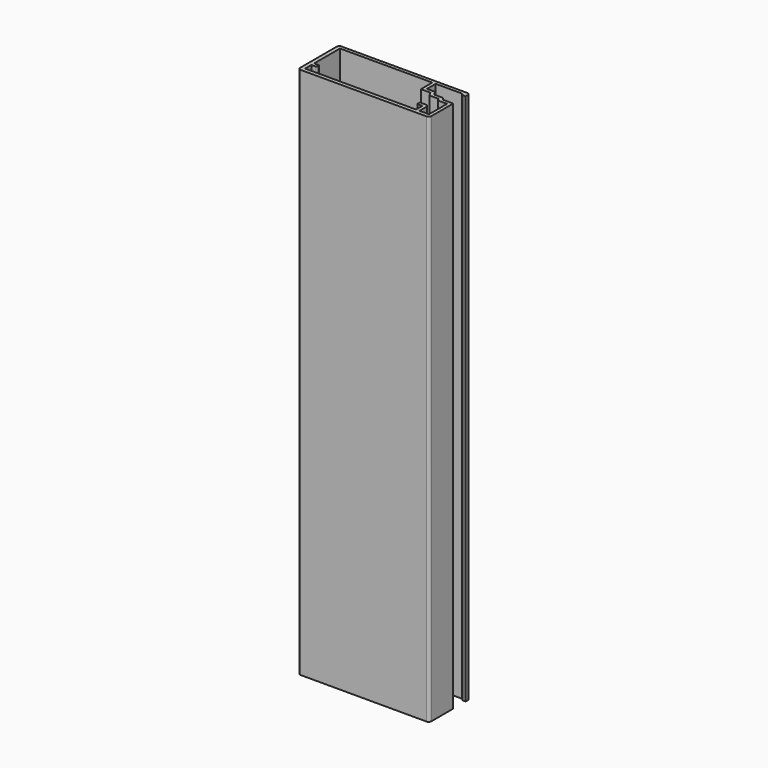
from build123d import *

# Parameters (mm, degrees)
F1_DEPTH = 203.2


with BuildPart() as f1:
    # F0 (on Top) → F1 (new body)
    with BuildSketch(Plane.XY):
        with BuildLine():
            Line((12.370237, 59.671687), (9.28678, 59.671687))
            Line((9.28678, 59.671687), (9.28678, 63.800687))
            Line((9.28678, 63.800687), (19.38678, 63.800687))
            Line((19.38678, 63.800687), (20.08678, 63.100687))
            Line((20.08678, 63.100687), (21.28678, 63.100687))
            Line((21.28678, 63.100687), (21.28678, 64.100687))
            ThreePointArc((21.28678, 64.100687), (20.993887, 64.807794), (20.28678, 65.100687))
            Line((20.28678, 65.100687), (-27.71322, 65.100687))
            ThreePointArc((-27.71322, 65.100687), (-28.420327, 64.807794), (-28.71322, 64.100687))
            Line((-28.71322, 64.100687), (-28.71322, 46.700687))
            ThreePointArc((-28.71322, 46.700687), (-28.420327, 45.993581), (-27.71322, 45.700687))
            Line((-27.71322, 45.700687), (20.28678, 45.700687))
            ThreePointArc((20.28678, 45.700687), (20.993887, 45.993581), (21.28678, 46.700687))
            Line((21.28678, 46.700687), (21.28678, 57.131687))
            Line((21.28678, 57.131687), (17.28678, 57.131687))
            Line((17.28678, 57.131687), (16.736854, 58.084187))
            Line((16.736854, 58.084187), (13.28678, 58.084187))
            Line((13.28678, 58.084187), (12.370237, 59.671687))
        make_face()
        with BuildLine():
            Line((-27.21322, 51.500687), (-27.21322, 63.800687))
            Line((-27.21322, 63.800687), (7.98678, 63.800687))
            Line((7.98678, 63.800687), (7.98678, 58.371687))
            Line((7.98678, 58.371687), (11.619681, 58.371687))
            Line((11.619681, 58.371687), (12.536225, 56.784187))
            Line((12.536225, 56.784187), (15.986299, 56.784187))
            Line((15.986299, 56.784187), (16.536225, 55.831687))
            Line((16.536225, 55.831687), (19.98678, 55.831687))
            Line((19.98678, 55.831687), (19.98678, 47.200687))
            Line((19.98678, 47.200687), (16.38678, 47.200687))
            Line((16.38678, 47.200687), (16.38678, 50.500687))
            ThreePointArc((16.38678, 50.500687), (16.093887, 51.207794), (15.38678, 51.500687))
            Line((15.38678, 51.500687), (13.38678, 51.500687))
            ThreePointArc((13.38678, 51.500687), (13.174648, 51.412819), (13.08678, 51.200687))
            Line((13.08678, 51.200687), (13.08678, 50.500687))
            ThreePointArc((13.08678, 50.500687), (13.174648, 50.288555), (13.38678, 50.200687))
            Line((13.38678, 50.200687), (15.08678, 50.200687))
            Line((15.08678, 50.200687), (15.08678, 47.200687))
            Line((15.08678, 47.200687), (-27.21322, 47.200687))
            Line((-27.21322, 47.200687), (-27.21322, 50.200687))
            Line((-27.21322, 50.200687), (-25.51322, 50.200687))
            ThreePointArc((-25.51322, 50.200687), (-25.301088, 50.288555), (-25.21322, 50.500687))
            Line((-25.21322, 50.500687), (-25.21322, 51.200687))
            ThreePointArc((-25.21322, 51.200687), (-25.301088, 51.412819), (-25.51322, 51.500687))
            Line((-25.51322, 51.500687), (-27.21322, 51.500687))
        make_face(mode=Mode.SUBTRACT)
    extrude(amount=F1_DEPTH)


solid = f1.part
